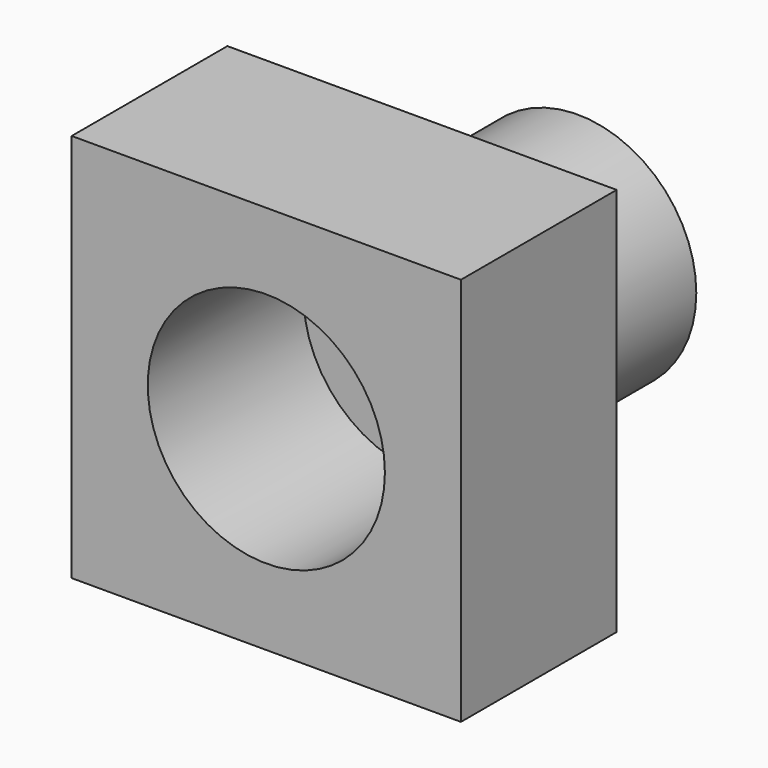
from build123d import *

# Parameters (mm, degrees)
F0_W     = 50.8
F0_H     = 50.8
F0_R     = 15.474425
F1_DEPTH = 25.4
F0_R_2   = 10.782577
F2_DEPTH = 25.4


with BuildPart() as f1:
    # F0 (on Front) → F1 (new body)
    with BuildSketch(Plane.XZ):
        with Locations((25.4, 25.4)):
            Rectangle(F0_W, F0_H)
        with Locations((25.4, 25.4)):
            Circle(F0_R, mode=Mode.SUBTRACT)
    extrude(amount=F1_DEPTH)

    # F0 (on Front) → F2 (join)
    with BuildSketch(Plane.XZ):
        with Locations((25.4, 25.4)):
            Circle(F0_R)
        with Locations((25.4, 25.4)):
            Circle(F0_R_2, mode=Mode.SUBTRACT)
    extrude(amount=-F2_DEPTH)


solid = f1.part
